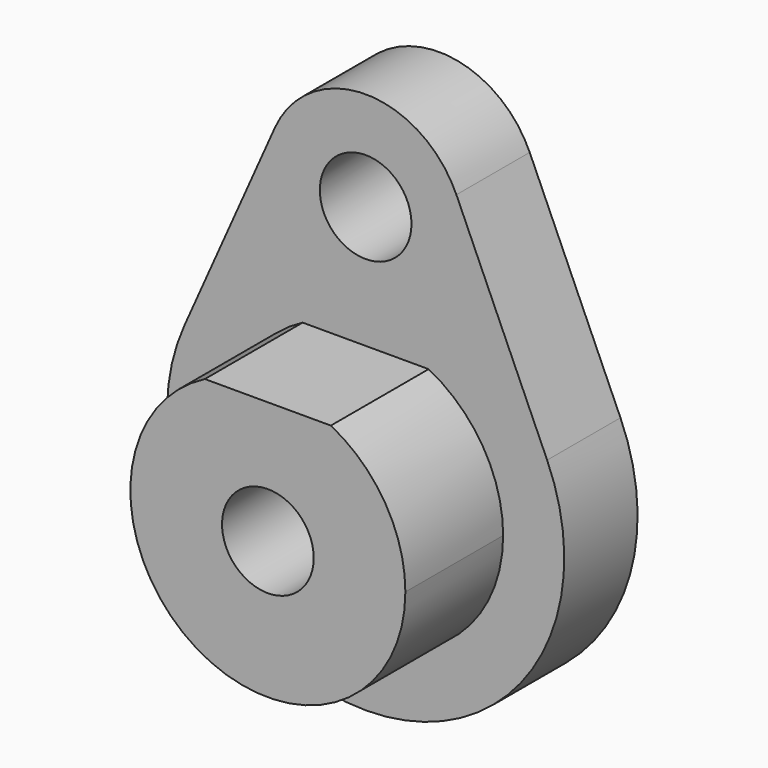
from build123d import *

# Parameters (mm, degrees)
F0_R     = 1.5
F1_DEPTH = 3
F3_DEPTH = 4
F4_R     = 1.5
F5_DEPTH = 20


with BuildPart() as f1:
    # F0 (on Front) → F1 (new body)
    with BuildSketch(Plane.XZ):
        with BuildLine():
            Line((5.9394528039, 2.640625), (2.9697264019, 9.3203125))
            ThreePointArc((2.9697264019, 9.3203125), (0, 11.25), (-2.9697264019, 9.3203125))
            Line((-2.9697264019, 9.3203125), (-5.9394528039, 2.640625))
            ThreePointArc((-5.9394528039, 2.640625), (0, -6.5), (5.9394528039, 2.640625))
        make_face()
        with Locations((0, 8)):
            Circle(F0_R, mode=Mode.SUBTRACT)
    extrude(amount=-F1_DEPTH)

    # F2 (on face) → F3 (join)
    with BuildSketch(Plane.XZ):
        with BuildLine():
            ThreePointArc((-2.0615528128, 4), (-2.3423292192, -3.8423292192), (4.5, 0))
            ThreePointArc((4.5, 0), (3.8423292192, 2.3423292192), (2.0615528128, 4))
            Line((2.0615528128, 4), (-2.0615528128, 4))
        make_face()
    extrude(amount=F3_DEPTH)

    # F4 (on face) → F5 (cut)
    with BuildSketch(Plane.XZ.offset(4)):
        Circle(F4_R)
    extrude(amount=-F5_DEPTH, mode=Mode.SUBTRACT)


solid = f1.part
